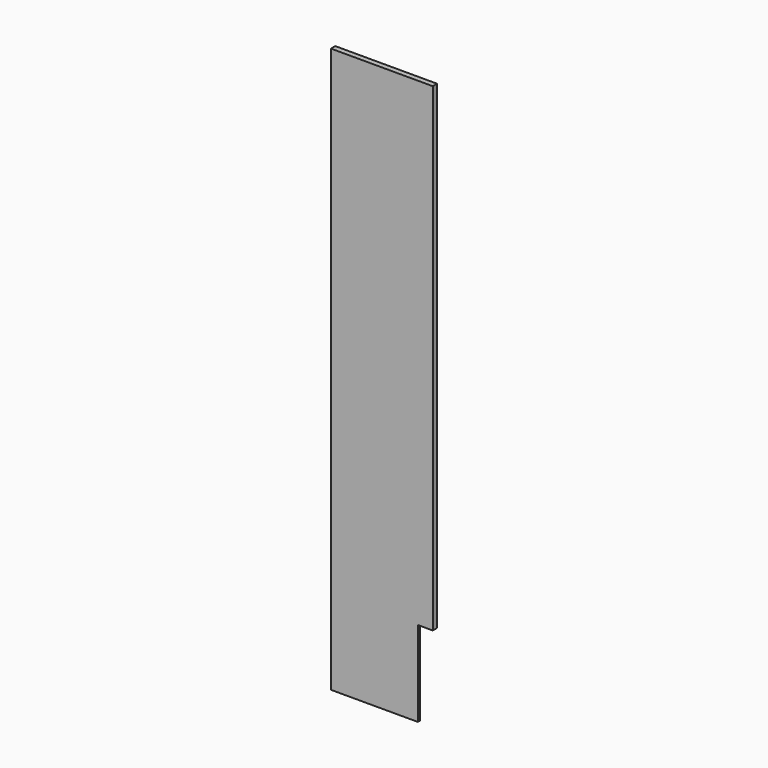
from build123d import *

# Parameters (mm, degrees)
F0_W     = 340
F0_H     = 1885
F1_DEPTH = 18
F2_W     = 50
F2_H     = 285
F3_DEPTH = 18
F4_W     = 18
F4_H     = 1876
F5_DEPTH = 9


with BuildPart() as f1:
    # F0 (on Front) → F1 (new body)
    with BuildSketch(Plane.XZ):
        Rectangle(F0_W, F0_H)
    extrude(amount=F1_DEPTH)

    # F2 (on face) → F3 (cut)
    with BuildSketch(Plane.XZ.offset(18)):
        with Locations((145, -800)):
            Rectangle(F2_W, F2_H)
    extrude(amount=-F3_DEPTH, mode=Mode.SUBTRACT)

    # F4 (on face) → F5 (cut)
    with BuildSketch(Plane(origin=(0, 0, 0), x_dir=(-1, 0, 0), z_dir=(0, 1, 0))):
        with Locations((-111, -4.5)):
            Rectangle(F4_W, F4_H)
    extrude(amount=-F5_DEPTH, mode=Mode.SUBTRACT)


solid = f1.part
